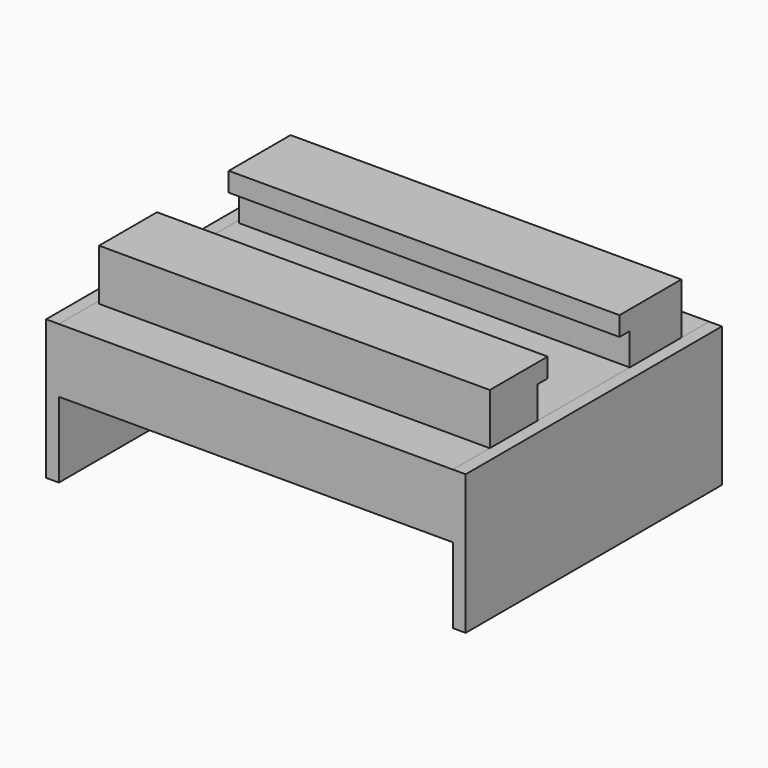
from build123d import *

# Parameters (mm, degrees)
SKETCH_W     = 61.5
SKETCH_H     = 50
SKETCH_W_2   = 31.5
SKETCH_H_2   = 7
PAD_DEPTH    = 10
PAD001_DEPTH = 61
SKETCH002_W  = 50
SKETCH002_H  = 21.795943
PAD002_DEPTH = 2
SKETCH003_W  = 50
SKETCH003_H  = 21.795943
PAD004_DEPTH = 2
SKETCH004_W  = 50
SKETCH004_H  = 21.795943
PAD005_DEPTH = 2


with BuildPart() as part:
    # Sketch → Pad (new body)
    with BuildSketch(Plane.XY):
        with Locations((-30.75, 25)):
            Rectangle(SKETCH_W, SKETCH_H)
        with Locations((-30.75, 25.5)):
            Rectangle(SKETCH_W_2, SKETCH_H_2, mode=Mode.SUBTRACT)
    extrude(amount=PAD_DEPTH)

    # Sketch001 (on Face3 of Pad) → Pad001 (join)
    with BuildSketch(Plane.YZ):
        Polygon((7.212803, 5), (7.212803, 18), (18.512702, 18), (18.512702, 15), (16.512702, 15), (16.512702, 5), align=None)
        Polygon((44.579088, 5), (44.579088, 18), (32.512702, 18), (32.512702, 15), (34.512702, 15), (34.512702, 5), align=None)
    extrude(amount=-PAD001_DEPTH)

    # Sketch002 (on Face1 of Pad001) → Pad002 (join)
    with BuildSketch(Plane(origin=(-61.5, 0, 0), x_dir=(0, -1, 0), z_dir=(-1, 0, 0))):
        with Locations((-25, -0.897971)):
            Rectangle(SKETCH002_W, SKETCH002_H)
    extrude(amount=PAD002_DEPTH)

    # Sketch003 → Pad004 (join)
    with BuildSketch(Plane.YZ):
        with Locations((25, -0.897971)):
            Rectangle(SKETCH003_W, SKETCH003_H)
    extrude(amount=PAD004_DEPTH)

    # Sketch004 (on Face3 of Pad002) → Pad005 (join)
    with BuildSketch(Plane.YZ):
        with Locations((25, -0.897971)):
            Rectangle(SKETCH004_W, SKETCH004_H)
    extrude(amount=PAD005_DEPTH)


solid = part.part
